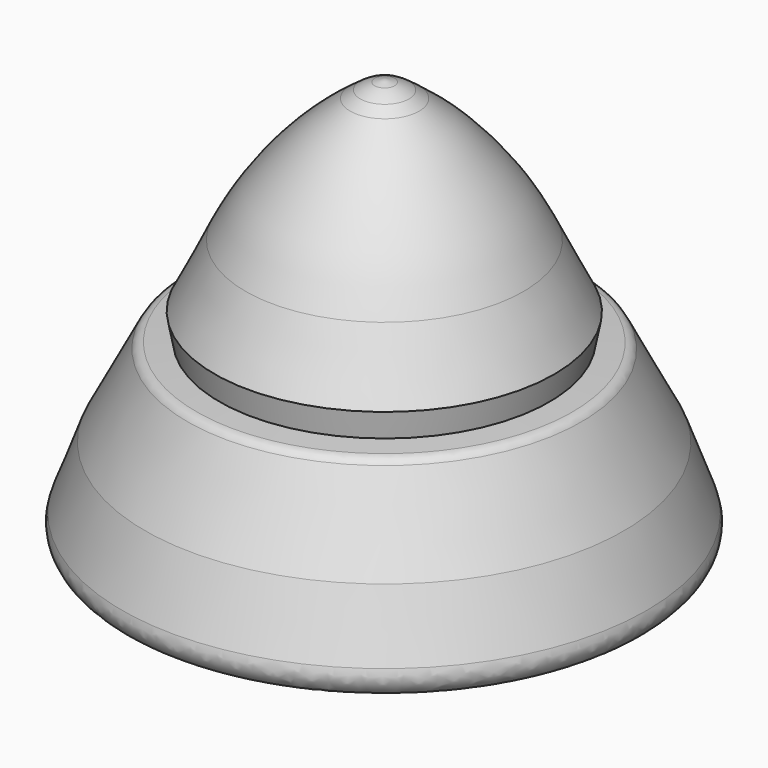
from build123d import *

# Parameters (mm, degrees)
F2_R = 0.3965414096
F3_R = 12.4970770477
F4_R = 1.6003475674
F5_R = 0.7991710891


with BuildPart() as f1:
    # F0 (on Front) → F1 (revolve)
    with BuildSketch(Plane.XZ):
        Polygon((-10, 0), (0, 0), (0.0228807389, 15.0439304168), (-0.6294960716, 14.86601048), (-3.7134597207, 12.6123450477), (-6.2043529757, 7.5712513959), (-6.0264319226, 6.6223393607), (-7.093957497, 6.563032219), (-8.7545530004, 3.3604551237), align=None)
    revolve(axis=Axis((0.0114403694, 0, 7.5219652084), (-0.0015209265, 0, -0.9999988434)))

    # F2
    f2_edges = [f1.edges().sort_by_distance(p)[0] for p in [
        (7.113888, 0, 6.541423),
    ]]
    fillet(f2_edges, radius=F2_R)

    # F3
    f3_edges = [f1.edges().sort_by_distance(p)[0] for p in [
        (3.751807, 0, 12.600991),
    ]]
    fillet(f3_edges, radius=F3_R)

    # F4
    f4_edges = [f1.edges().sort_by_distance(p)[0] for p in [
        (0.674713, 0, 14.864027),
    ]]
    fillet(f4_edges, radius=F4_R)

    # F5
    f5_edges = [f1.edges().sort_by_distance(p)[0] for p in [
        (9.999954, 0, -0.030418),
    ]]
    fillet(f5_edges, radius=F5_R)


solid = f1.part
